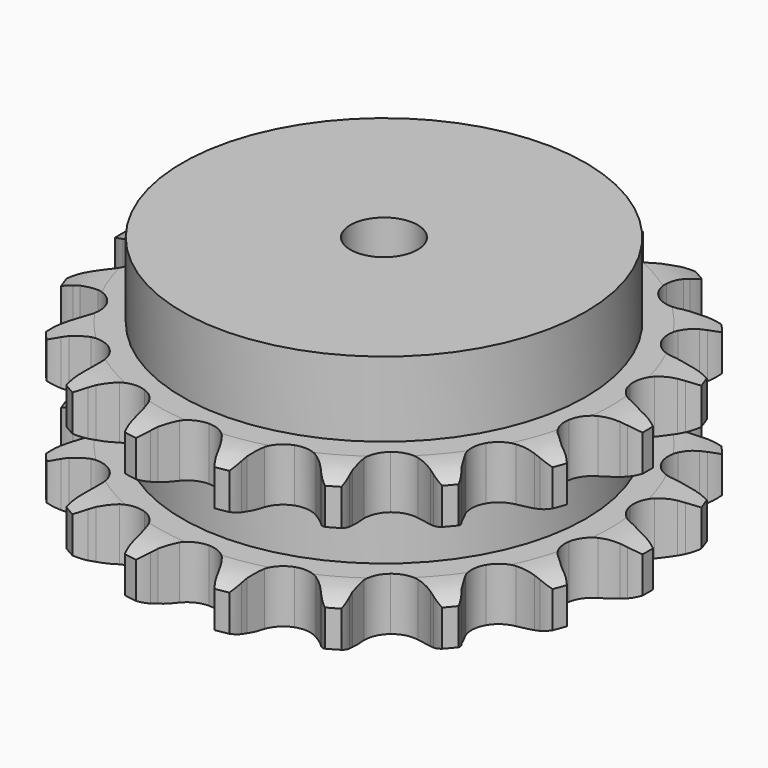
from build123d import *

# Parameters (mm, degrees)
PAD_DEPTH         = 47.7
SKETCH001_R       = 60
PAD001_DEPTH      = 70
SKETCH002_R       = 10
POCKET_DEPTH      = 0.0010001
POCKET_DEPTH_BACK = 70.001


with BuildPart() as part:
    # Sprocket → Pad (new body)
    with BuildSketch(Plane.XY):
        with BuildLine():
            ThreePointArc((-14.0872746889, 79.8929048314), (-11.589052201, 77.4900869619), (-9.8037487795, 74.5190028152))
            Line((-9.8037487795, 74.5190028152), (-9.0459217433, 72.771488202))
            ThreePointArc((-9.0459217433, 72.771488202), (-7.8174960797, 70.377806021), (-6.2892879182, 68.163461014))
            ThreePointArc((-6.2892879182, 68.163461014), (-3.493794915, 65.9198406767), (0, 65.1185851359))
            ThreePointArc((0, 65.1185851359), (3.493794915, 65.9198406767), (6.2892879182, 68.163461014))
            ThreePointArc((6.2892879182, 68.163461014), (7.8174960797, 70.377806021), (9.0459217433, 72.771488202))
            Line((9.0459217433, 72.771488202), (9.8037487795, 74.5190028152))
            ThreePointArc((9.8037487795, 74.5190028152), (11.589052201, 77.4900869619), (14.0872746889, 79.8929048314))
            ThreePointArc((14.0872746889, 79.8929048314), (15.6130238139, 76.7805521969), (16.2744896392, 73.3780366164))
            Line((16.2744896392, 73.3780366164), (16.3889289145, 71.4767179182))
            ThreePointArc((16.3889289145, 71.4767179182), (16.7245839232, 68.8072461147), (17.4032792589, 66.2037644773))
            ThreePointArc((17.4032792589, 66.2037644773), (19.2628200561, 63.1393360848), (22.2718678214, 61.1914539282))
            ThreePointArc((22.2718678214, 61.1914539282), (25.8290066564, 60.7494396097), (29.2232741523, 61.9016381669))
            Line((29.2232741523, 61.9016381669), (33.3897007353, 65.2889430159))
            ThreePointArc((33.3897007353, 65.2889430159), (34.0287071561, 65.9954680154), (34.6995104075, 66.671877491))
            ThreePointArc((34.6995104075, 66.671877491), (37.3933174842, 68.8531736073), (40.5626908333, 70.256641415))
            ThreePointArc((40.5626908333, 70.256641415), (40.9319387331, 66.8101496767), (40.3897844215, 63.3865962573))
            Line((40.3897844215, 63.3865962573), (39.8470328703, 61.5608005694))
            ThreePointArc((39.8470328703, 61.5608005694), (39.2494322763, 58.9375168401), (38.9967541123, 56.2589168811))
            ThreePointArc((38.9967541123, 56.2589168811), (39.6960546395, 52.7432957238), (41.8574196857, 49.8837302871))
            ThreePointArc((41.8574196857, 49.8837302871), (45.0488589995, 48.2517595595), (48.6325022341, 48.173564186))
            Line((48.6325022341, 48.173564186), (53.7061890391, 49.9315877398))
            ThreePointArc((53.7061890391, 49.9315877398), (54.5483044389, 50.3769510007), (55.4099989701, 50.7831397694))
            ThreePointArc((55.4099989701, 50.7831397694), (58.6873968122, 51.9115513512), (62.1456478216, 52.1463901664))
            ThreePointArc((62.1456478216, 52.1463901664), (61.31385775, 48.7814570928), (59.6334751129, 45.749796903))
            Line((59.6334751129, 45.749796903), (58.4989965825, 44.2197421314))
            ThreePointArc((58.4989965825, 44.2197421314), (57.040219837, 41.9590532095), (55.8866448889, 39.5284136159))
            ThreePointArc((55.8866448889, 39.5284136159), (55.341359182, 35.9856354903), (56.3943489862, 32.559292568))
            ThreePointArc((56.3943489862, 32.559292568), (58.8351540969, 29.9342051864), (62.1759328071, 28.6350473981))
            Line((62.1759328071, 28.6350473981), (67.5449183258, 28.5517460706))
            ThreePointArc((67.5449183258, 28.5517460706), (68.4885711592, 28.6822302106), (69.4372238924, 28.7692059122))
            ThreePointArc((69.4372238924, 28.7692059122), (72.9029099509, 28.7086298691), (76.2329225106, 27.746514665))
            ThreePointArc((76.2329225106, 27.746514665), (74.3004206261, 24.8690008458), (71.6844886093, 22.5948968471))
            Line((71.6844886093, 22.5948968471), (70.0951179535, 21.5451301783))
            ThreePointArc((70.0951179535, 21.5451301783), (67.9511150613, 19.9197085122), (66.0357814929, 18.0302002913))
            ThreePointArc((66.0357814929, 18.0302002913), (64.3116790556, 14.8875765253), (64.129287507, 11.3077236411))
            ThreePointArc((64.129287507, 11.3077236411), (65.5250612958, 8.0061438859), (68.2200282646, 5.6427212858))
            Line((68.2200282646, 5.6427212858), (73.2367336056, 3.7281424464))
            ThreePointArc((73.2367336056, 3.7281424464), (74.168105414, 3.5280091526), (75.089294829, 3.2852812338))
            ThreePointArc((75.089294829, 3.2852812338), (78.3252562172, 2.0430239306), (81.1253816666, 0))
            ThreePointArc((81.1253816666, 0), (78.3252562172, -2.0430239306), (75.089294829, -3.2852812338))
            Line((75.089294829, -3.2852812338), (73.2367336056, -3.7281424464))
            ThreePointArc((73.2367336056, -3.7281424464), (70.6661029576, -4.5222470153), (68.2200282646, -5.6427212858))
            ThreePointArc((68.2200282646, -5.6427212858), (65.5250612958, -8.0061438859), (64.129287507, -11.3077236411))
            ThreePointArc((64.129287507, -11.3077236411), (64.3116790556, -14.8875765253), (66.0357814929, -18.0302002913))
            Line((66.0357814929, -18.0302002913), (70.0951179535, -21.5451301783))
            ThreePointArc((70.0951179535, -21.5451301783), (70.9018715513, -22.0517418771), (71.6844886093, -22.5948968471))
            ThreePointArc((71.6844886093, -22.5948968471), (74.3004206261, -24.8690008458), (76.2329225106, -27.746514665))
            ThreePointArc((76.2329225106, -27.746514665), (72.9029099509, -28.7086298691), (69.4372238924, -28.7692059122))
            Line((69.4372238924, -28.7692059122), (67.5449183258, -28.5517460706))
            ThreePointArc((67.5449183258, -28.5517460706), (64.8577159166, -28.4187528115), (62.1759328071, -28.6350473981))
            ThreePointArc((62.1759328071, -28.6350473981), (58.8351540969, -29.9342051864), (56.3943489862, -32.559292568))
            ThreePointArc((56.3943489862, -32.559292568), (55.341359182, -35.9856354903), (55.8866448889, -39.5284136159))
            Line((55.8866448889, -39.5284136159), (58.4989965825, -44.2197421314))
            ThreePointArc((58.4989965825, -44.2197421314), (59.0838255792, -44.9717273875), (59.6334751129, -45.749796903))
            ThreePointArc((59.6334751129, -45.749796903), (61.31385775, -48.7814570928), (62.1456478216, -52.1463901664))
            ThreePointArc((62.1456478216, -52.1463901664), (58.6873968122, -51.9115513512), (55.4099989701, -50.7831397694))
            Line((55.4099989701, -50.7831397694), (53.7061890391, -49.9315877398))
            ThreePointArc((53.7061890391, -49.9315877398), (51.2265311382, -48.8875376025), (48.6325022341, -48.173564186))
            ThreePointArc((48.6325022341, -48.173564186), (45.0488589995, -48.2517595595), (41.8574196857, -49.8837302871))
            ThreePointArc((41.8574196857, -49.8837302871), (39.6960546395, -52.7432957238), (38.9967541123, -56.2589168811))
            Line((38.9967541123, -56.2589168811), (39.8470328703, -61.5608005694))
            ThreePointArc((39.8470328703, -61.5608005694), (40.1393982579, -62.4674588628), (40.3897844215, -63.3865962573))
            ThreePointArc((40.3897844215, -63.3865962573), (40.9319387331, -66.8101496767), (40.5626908333, -70.256641415))
            ThreePointArc((40.5626908333, -70.256641415), (37.3933174842, -68.8531736073), (34.6995104075, -66.671877491))
            Line((34.6995104075, -66.671877491), (33.3897007353, -65.2889430159))
            ThreePointArc((33.3897007353, -65.2889430159), (31.4166706813, -63.4597638554), (29.2232741523, -61.9016381669))
            ThreePointArc((29.2232741523, -61.9016381669), (25.8290066564, -60.7494396097), (22.2718678214, -61.1914539282))
            ThreePointArc((22.2718678214, -61.1914539282), (19.2628200561, -63.1393360848), (17.4032792589, -66.2037644773))
            Line((17.4032792589, -66.2037644773), (16.3889289145, -71.4767179182))
            ThreePointArc((16.3889289145, -71.4767179182), (16.3535671123, -72.4286928778), (16.2744896392, -73.3780366164))
            ThreePointArc((16.2744896392, -73.3780366164), (15.6130238139, -76.7805521969), (14.0872746889, -79.8929048314))
            ThreePointArc((14.0872746889, -79.8929048314), (11.589052201, -77.4900869619), (9.8037487795, -74.5190028152))
            Line((9.8037487795, -74.5190028152), (9.0459217433, -72.771488202))
            ThreePointArc((9.0459217433, -72.771488202), (7.8174960797, -70.377806021), (6.2892879182, -68.163461014))
            ThreePointArc((6.2892879182, -68.163461014), (3.493794915, -65.9198406767), (0, -65.1185851359))
            ThreePointArc((0, -65.1185851359), (-3.493794915, -65.9198406767), (-6.2892879182, -68.163461014))
            Line((-6.2892879182, -68.163461014), (-9.0459217433, -72.771488202))
            ThreePointArc((-9.0459217433, -72.771488202), (-9.40474558, -73.6539575981), (-9.8037487795, -74.5190028152))
            ThreePointArc((-9.8037487795, -74.5190028152), (-11.589052201, -77.4900869619), (-14.0872746889, -79.8929048314))
            ThreePointArc((-14.0872746889, -79.8929048314), (-15.6130238139, -76.7805521969), (-16.2744896392, -73.3780366164))
            Line((-16.2744896392, -73.3780366164), (-16.3889289145, -71.4767179182))
            ThreePointArc((-16.3889289145, -71.4767179182), (-16.7245839232, -68.8072461147), (-17.4032792589, -66.2037644773))
            ThreePointArc((-17.4032792589, -66.2037644773), (-19.2628200561, -63.1393360848), (-22.2718678214, -61.1914539282))
            ThreePointArc((-22.2718678214, -61.1914539282), (-25.8290066564, -60.7494396097), (-29.2232741523, -61.9016381669))
            Line((-29.2232741523, -61.9016381669), (-33.3897007353, -65.2889430159))
            ThreePointArc((-33.3897007353, -65.2889430159), (-34.0287071561, -65.9954680154), (-34.6995104075, -66.671877491))
            ThreePointArc((-34.6995104075, -66.671877491), (-37.3933174842, -68.8531736073), (-40.5626908333, -70.256641415))
            ThreePointArc((-40.5626908333, -70.256641415), (-40.9319387331, -66.8101496767), (-40.3897844215, -63.3865962573))
            Line((-40.3897844215, -63.3865962573), (-39.8470328703, -61.5608005694))
            ThreePointArc((-39.8470328703, -61.5608005694), (-39.2494322763, -58.9375168401), (-38.9967541123, -56.2589168811))
            ThreePointArc((-38.9967541123, -56.2589168811), (-39.6960546395, -52.7432957238), (-41.8574196857, -49.8837302871))
            ThreePointArc((-41.8574196857, -49.8837302871), (-45.0488589995, -48.2517595595), (-48.6325022341, -48.173564186))
            Line((-48.6325022341, -48.173564186), (-53.7061890391, -49.9315877398))
            ThreePointArc((-53.7061890391, -49.9315877398), (-54.5483044389, -50.3769510007), (-55.4099989701, -50.7831397694))
            ThreePointArc((-55.4099989701, -50.7831397694), (-58.6873968122, -51.9115513512), (-62.1456478216, -52.1463901664))
            ThreePointArc((-62.1456478216, -52.1463901664), (-61.31385775, -48.7814570928), (-59.6334751129, -45.749796903))
            Line((-59.6334751129, -45.749796903), (-58.4989965825, -44.2197421314))
            ThreePointArc((-58.4989965825, -44.2197421314), (-57.040219837, -41.9590532095), (-55.8866448889, -39.5284136159))
            ThreePointArc((-55.8866448889, -39.5284136159), (-55.341359182, -35.9856354903), (-56.3943489862, -32.559292568))
            ThreePointArc((-56.3943489862, -32.559292568), (-58.8351540969, -29.9342051864), (-62.1759328071, -28.6350473981))
            Line((-62.1759328071, -28.6350473981), (-67.5449183258, -28.5517460706))
            ThreePointArc((-67.5449183258, -28.5517460706), (-68.4885711592, -28.6822302106), (-69.4372238924, -28.7692059122))
            ThreePointArc((-69.4372238924, -28.7692059122), (-72.9029099509, -28.7086298691), (-76.2329225106, -27.746514665))
            ThreePointArc((-76.2329225106, -27.746514665), (-74.3004206261, -24.8690008458), (-71.6844886093, -22.5948968471))
            Line((-71.6844886093, -22.5948968471), (-70.0951179535, -21.5451301783))
            ThreePointArc((-70.0951179535, -21.5451301783), (-67.9511150613, -19.9197085122), (-66.0357814929, -18.0302002913))
            ThreePointArc((-66.0357814929, -18.0302002913), (-64.3116790556, -14.8875765253), (-64.129287507, -11.3077236411))
            ThreePointArc((-64.129287507, -11.3077236411), (-65.5250612958, -8.0061438859), (-68.2200282646, -5.6427212858))
            Line((-68.2200282646, -5.6427212858), (-73.2367336056, -3.7281424464))
            ThreePointArc((-73.2367336056, -3.7281424464), (-74.168105414, -3.5280091526), (-75.089294829, -3.2852812338))
            ThreePointArc((-75.089294829, -3.2852812338), (-78.3252562172, -2.0430239306), (-81.1253816666, 0))
            ThreePointArc((-81.1253816666, 0), (-78.3252562172, 2.0430239306), (-75.089294829, 3.2852812338))
            Line((-75.089294829, 3.2852812338), (-73.2367336056, 3.7281424464))
            ThreePointArc((-73.2367336056, 3.7281424464), (-70.6661029576, 4.5222470153), (-68.2200282646, 5.6427212858))
            ThreePointArc((-68.2200282646, 5.6427212858), (-65.5250612958, 8.0061438859), (-64.129287507, 11.3077236411))
            ThreePointArc((-64.129287507, 11.3077236411), (-64.3116790556, 14.8875765253), (-66.0357814929, 18.0302002913))
            Line((-66.0357814929, 18.0302002913), (-70.0951179535, 21.5451301783))
            ThreePointArc((-70.0951179535, 21.5451301783), (-70.9018715513, 22.0517418771), (-71.6844886093, 22.5948968471))
            ThreePointArc((-71.6844886093, 22.5948968471), (-74.3004206261, 24.8690008458), (-76.2329225106, 27.746514665))
            ThreePointArc((-76.2329225106, 27.746514665), (-72.9029099509, 28.7086298691), (-69.4372238924, 28.7692059122))
            Line((-69.4372238924, 28.7692059122), (-67.5449183258, 28.5517460706))
            ThreePointArc((-67.5449183258, 28.5517460706), (-64.8577159166, 28.4187528115), (-62.1759328071, 28.6350473981))
            ThreePointArc((-62.1759328071, 28.6350473981), (-58.8351540969, 29.9342051864), (-56.3943489862, 32.559292568))
            ThreePointArc((-56.3943489862, 32.559292568), (-55.341359182, 35.9856354903), (-55.8866448889, 39.5284136159))
            Line((-55.8866448889, 39.5284136159), (-58.4989965825, 44.2197421314))
            ThreePointArc((-58.4989965825, 44.2197421314), (-59.0838255792, 44.9717273875), (-59.6334751129, 45.749796903))
            ThreePointArc((-59.6334751129, 45.749796903), (-61.31385775, 48.7814570928), (-62.1456478216, 52.1463901664))
            ThreePointArc((-62.1456478216, 52.1463901664), (-58.6873968122, 51.9115513512), (-55.4099989701, 50.7831397694))
            Line((-55.4099989701, 50.7831397694), (-53.7061890391, 49.9315877398))
            ThreePointArc((-53.7061890391, 49.9315877398), (-51.2265311382, 48.8875376025), (-48.6325022341, 48.173564186))
            ThreePointArc((-48.6325022341, 48.173564186), (-45.0488589995, 48.2517595595), (-41.8574196857, 49.8837302871))
            ThreePointArc((-41.8574196857, 49.8837302871), (-39.6960546395, 52.7432957238), (-38.9967541123, 56.2589168811))
            Line((-38.9967541123, 56.2589168811), (-39.8470328703, 61.5608005694))
            ThreePointArc((-39.8470328703, 61.5608005694), (-40.1393982579, 62.4674588628), (-40.3897844215, 63.3865962573))
            ThreePointArc((-40.3897844215, 63.3865962573), (-40.9319387331, 66.8101496767), (-40.5626908333, 70.256641415))
            ThreePointArc((-40.5626908333, 70.256641415), (-37.3933174842, 68.8531736073), (-34.6995104075, 66.671877491))
            Line((-34.6995104075, 66.671877491), (-33.3897007353, 65.2889430159))
            ThreePointArc((-33.3897007353, 65.2889430159), (-31.4166706813, 63.4597638554), (-29.2232741523, 61.9016381669))
            ThreePointArc((-29.2232741523, 61.9016381669), (-25.8290066564, 60.7494396097), (-22.2718678214, 61.1914539282))
            ThreePointArc((-22.2718678214, 61.1914539282), (-19.2628200561, 63.1393360848), (-17.4032792589, 66.2037644773))
            Line((-17.4032792589, 66.2037644773), (-16.3889289145, 71.4767179182))
            ThreePointArc((-16.3889289145, 71.4767179182), (-16.3535671123, 72.4286928778), (-16.2744896392, 73.3780366164))
            ThreePointArc((-16.2744896392, 73.3780366164), (-15.6130238139, 76.7805521969), (-14.0872746889, 79.8929048314))
        make_face()
    extrude(amount=PAD_DEPTH)

    # Sketch → Groove (revolve, cut)
    with BuildSketch(Plane.XZ):
        with BuildLine():
            ThreePointArc((67.3757022694, 0), (73.0765793949, 0.6326982121), (78.5, 2.5))
            Line((78.5, 2.5), (78.5, 13.3))
            ThreePointArc((78.5, 13.3), (73.0765793949, 15.1673017879), (67.3757022694, 15.8))
            Line((60, 15.8), (67.3757022694, 15.8))
            Line((60, 31.9), (60, 15.8))
            Line((67.3757022694, 31.9), (60, 31.9))
            ThreePointArc((67.3757022694, 31.9), (73.0765793949, 32.5326982121), (78.5, 34.4))
            Line((78.5, 34.4), (78.5, 45.2))
            ThreePointArc((78.5, 45.2), (73.0765793949, 47.0673017879), (67.3757022694, 47.7))
            Line((67.3757022694, 47.7), (88.5, 47.7))
            Line((88.5, 47.7), (88.5, 0))
            Line((67.3757022694, 0), (88.5, 0))
        make_face()
    revolve(axis=Axis((0, 0, 0), (0, 0, 1)), mode=Mode.SUBTRACT)

    # Sketch001 → Pad001 (join)
    with BuildSketch(Plane.XY):
        Circle(SKETCH001_R)
    extrude(amount=PAD001_DEPTH)

    # Sketch002 → Pocket (cut, two sides)
    with BuildSketch(Plane.XY) as pocket_sk:
        Circle(SKETCH002_R)
    extrude(amount=-POCKET_DEPTH, mode=Mode.SUBTRACT)
    extrude(pocket_sk.sketch, amount=POCKET_DEPTH_BACK, mode=Mode.SUBTRACT)


solid = part.part
